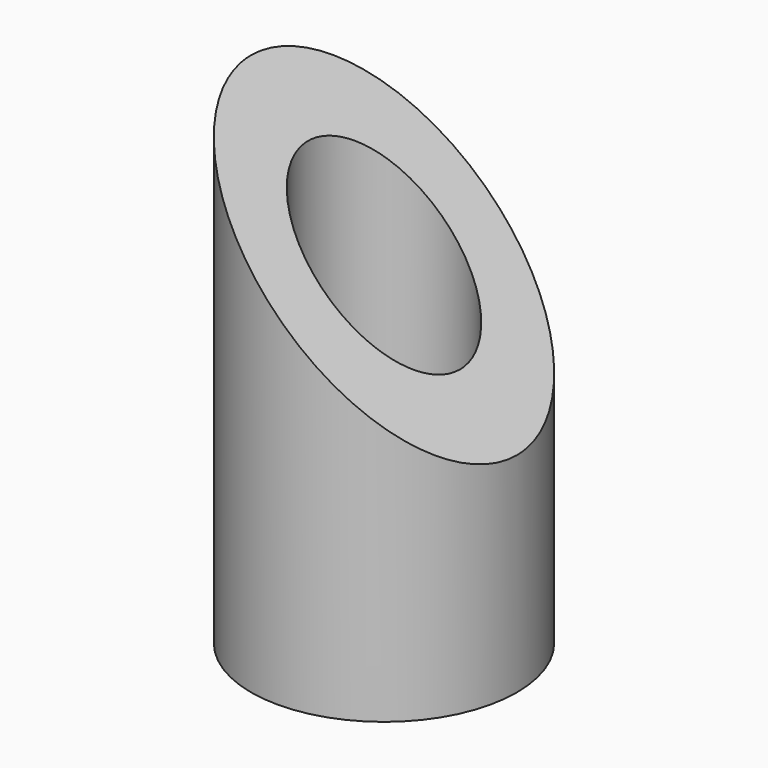
from build123d import *

# Parameters (mm, degrees)
F0_R     = 7
F0_R_2   = 4
F1_DEPTH = 25
F3_DEPTH = 12.5


with BuildPart() as f1:
    # F0 (on Top) → F1 (new body)
    with BuildSketch(Plane.XY):
        Circle(F0_R)
        Circle(F0_R_2, mode=Mode.SUBTRACT)
    extrude(amount=F1_DEPTH)

    # F2 (on Front) → F3 (cut, symmetric)
    with BuildSketch(Plane.XZ):
        Polygon((7, 11), (7, 25), (-7, 25), align=None)
    extrude(amount=F3_DEPTH, both=True, mode=Mode.SUBTRACT)


solid = f1.part
